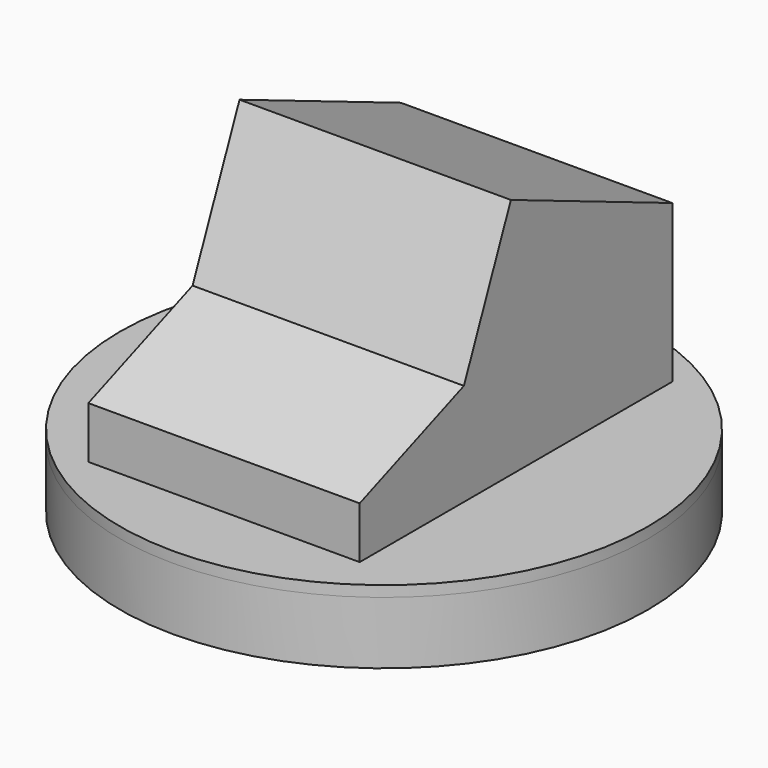
from build123d import *

# Parameters (mm, degrees)
SKETCH_R              = 48.64
PAD_DEPTH             = 1
SKETCH001_R           = 48.64
SKETCH001_R_2         = 47.64
PAD001_DEPTH          = 10.5
SKETCH002_R           = 23.64
SKETCH002_R_2         = 22.64
PAD002_DEPTH          = 10.5
SKETCH003_W           = 2
SKETCH003_H           = 2.5
PAD003_DEPTH          = 10.5
POLARPATTERN_COUNT    = 4
SKETCH004_R           = 48.64
PAD004_DEPTH          = 2
SKETCH005_R           = 47.49
SKETCH005_R_2         = 45.99
PAD005_DEPTH          = 2.625
SKETCH006_W           = 2.6
SKETCH006_H           = 6
POCKET_DEPTH          = 5.25
POLARPATTERN001_COUNT = 4
PAD006_DEPTH          = 50


with BuildPart() as led_base:
    # Sketch → Pad (new body)
    with BuildSketch(Plane.XY):
        Circle(SKETCH_R)
    extrude(amount=PAD_DEPTH)

    # Sketch001 (on DatumPlane) → Pad001 (join)
    with BuildSketch(Plane.XY.offset(1)):
        Circle(SKETCH001_R)
        Circle(SKETCH001_R_2, mode=Mode.SUBTRACT)
    extrude(amount=PAD001_DEPTH)

    # Sketch002 (on DatumPlane) → Pad002 (join)
    with BuildSketch(Plane.XY.offset(1)):
        Circle(SKETCH002_R)
        Circle(SKETCH002_R_2, mode=Mode.SUBTRACT)
    extrude(amount=PAD002_DEPTH)

    # Sketch003 (on DatumPlane) → Pad003 (join)
    with BuildSketch(Plane.XY.offset(11.5)):
        with Locations((0, 46.39)):
            Rectangle(SKETCH003_W, SKETCH003_H)
    pad003 = extrude(amount=-PAD003_DEPTH)

    # PolarPattern: Pad003 ×4 about axis
    polarpattern_axis = Axis((0, 0, 11.5), (0, 0, 1))
    for i in range(1, POLARPATTERN_COUNT):
        add(pad003.rotate(polarpattern_axis, i * 360 / POLARPATTERN_COUNT))


with BuildPart() as led_lid:
    # Sketch004 (on DatumPlane) → Pad004 (new body)
    with BuildSketch(Plane.XY.offset(11.5)):
        Circle(SKETCH004_R)
    extrude(amount=PAD004_DEPTH)

    # Sketch005 (on DatumPlane) → Pad005 (join)
    with BuildSketch(Plane.XY.offset(11.5)):
        Circle(SKETCH005_R)
        Circle(SKETCH005_R_2, mode=Mode.SUBTRACT)
    extrude(amount=-PAD005_DEPTH)

    # Sketch006 (on DatumPlane) → Pocket (cut)
    with BuildSketch(Plane.XY.offset(11.5)):
        with Locations((0, 45.64)):
            Rectangle(SKETCH006_W, SKETCH006_H)
    pocket = extrude(amount=-POCKET_DEPTH, mode=Mode.SUBTRACT)

    # PolarPattern001: Pocket ×4 about axis
    polarpattern001_axis = Axis((0, 0, 11.5), (0, 0, 1))
    for i in range(1, POLARPATTERN001_COUNT):
        add(pocket.rotate(polarpattern001_axis, i * 360 / POLARPATTERN001_COUNT), mode=Mode.SUBTRACT)


with BuildPart() as skeleton:
    # Sketch007 (on DatumPlane) → Pad006 (new body)
    with BuildSketch(Plane.YZ.offset(24.32)):
        Polygon((-1.175629, 59.051144), (-11.993196, 33.290246), (-36, 23.991273), (-36, 14.455187), (36, 14.455187), (36, 43.440281), align=None)
    extrude(amount=-PAD006_DEPTH)


solid = Compound([led_base.part, led_lid.part, skeleton.part])
